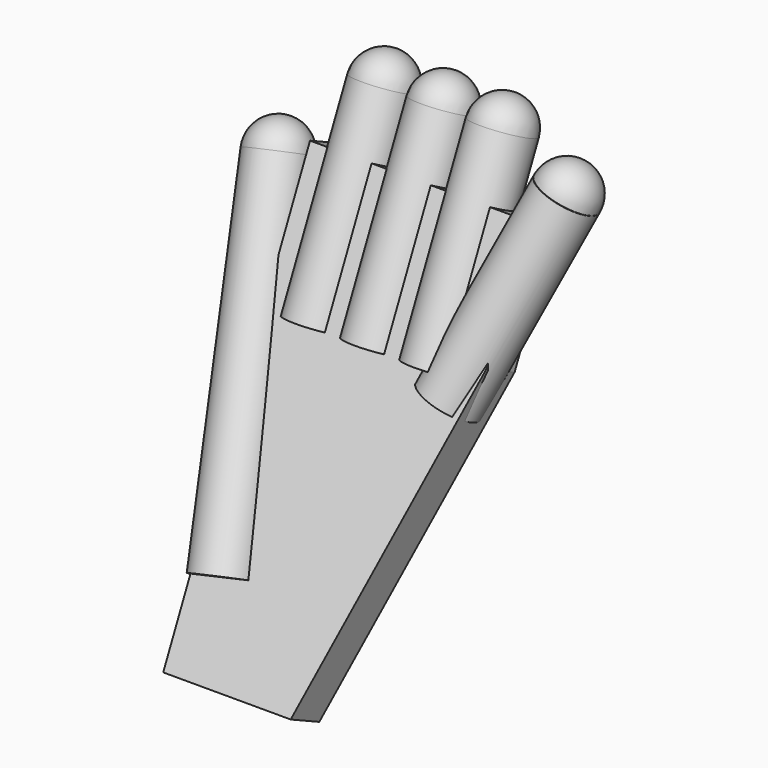
from build123d import *

# Parameters (mm, degrees)
CYLINDER076_R                     = 1.5
CYLINDER076_DEPTH                 = 10
CYLINDER076_ROLL_ANGLE            = -86.804178
CYLINDER076_PITCH_ANGLE           = 18.403125
CYLINDER076_PLACEMENT_ANGLE       = 19.43972
CYLINDER074_R                     = 1.5
CYLINDER074_DEPTH                 = 10
CYLINDER075_R                     = 1.5
CYLINDER075_DEPTH                 = 10
CYLINDER078_R                     = 1.5
CYLINDER078_DEPTH                 = 10
CYLINDER077_R                     = 1.5
CYLINDER077_DEPTH                 = 17
CYLINDER077_ROLL_ANGLE            = 87.960425
CYLINDER077_PITCH_ANGLE           = -11.302952
CYLINDER077_PLACEMENT_ANGLE       = -10.91002
BOX026_W                          = 10
BOX026_H                          = 19
BOX026_DEPTH                      = 10
BOX026_PLACEMENT_ANGLE            = 16
BOX025_W                          = 11
BOX025_H                          = 22
BOX025_DEPTH                      = 2
PART_MIRRORING003_PLACEMENT_ANGLE = 65


with BuildPart() as cylindre072:
    # Cylinder076 → Cylinder076 (new body)
    with BuildSketch(Plane.XY):
        Circle(CYLINDER076_R)
    extrude(amount=CYLINDER076_DEPTH)


with BuildPart() as cylindre072_1:
    # Cylinder076 roll: moved
    add(cylindre072.part.rotate(Axis((0, 0, 0), (1, 0, 0)), CYLINDER076_ROLL_ANGLE))


with BuildPart() as cylindre072_2:
    # Cylinder076 pitch: moved
    add(cylindre072_1.part.rotate(Axis((0, 0, 0), (0, 1, 0)), CYLINDER076_PITCH_ANGLE))


with BuildPart() as cylindre072_3:
    # Cylinder076 placement: moved
    add(cylindre072_2.part.moved(Location((-5, 26, -135))).rotate(Axis((-5, 26, -135), (0, 0, 1)), CYLINDER076_PLACEMENT_ANGLE))


with BuildPart() as obj1:
    # Sphere004 → Sphere004 (revolve)
    with BuildSketch(Plane(origin=(-8.15, 35.5, -134.5), x_dir=(1, 0, 0), z_dir=(0, -1, 0))):
        with BuildLine():
            ThreePointArc((0, -1.5), (1.5, 0), (0, 1.5))
            Line((0, 1.5), (0, -1.5))
        make_face()
    revolve(axis=Axis((-8.15, 35.5, -134.5), (0, 0, 1)))


with BuildPart() as cylindre070:
    # Cylinder074 → Cylinder074 (new body)
    with BuildSketch(Plane(origin=(-4, 37, -135), x_dir=(1, 0, 0), z_dir=(0, -1, 0))):
        Circle(CYLINDER074_R)
    extrude(amount=CYLINDER074_DEPTH)


with BuildPart() as obj2:
    # Sphere003 → Sphere003 (revolve)
    with BuildSketch(Plane(origin=(-4, 37, -135), x_dir=(1, 0, 0), z_dir=(0, -1, 0))):
        with BuildLine():
            ThreePointArc((0, -1.5), (1.5, 0), (0, 1.5))
            Line((0, 1.5), (0, -1.5))
        make_face()
    revolve(axis=Axis((-4, 37, -135), (0, 0, 1)))


with BuildPart() as cylindre071:
    # Cylinder075 → Cylinder075 (new body)
    with BuildSketch(Plane(origin=(-1, 37, -135), x_dir=(1, 0, 0), z_dir=(0, -1, 0))):
        Circle(CYLINDER075_R)
    extrude(amount=CYLINDER075_DEPTH)


with BuildPart() as obj3:
    # Sphere002 → Sphere002 (revolve)
    with BuildSketch(Plane(origin=(-1, 37, -135), x_dir=(1, 0, 0), z_dir=(0, -1, 0))):
        with BuildLine():
            ThreePointArc((0, -1.5), (1.5, 0), (0, 1.5))
            Line((0, 1.5), (0, -1.5))
        make_face()
    revolve(axis=Axis((-1, 37, -135), (0, 0, 1)))


with BuildPart() as cylindre074:
    # Cylinder078 → Cylinder078 (new body)
    with BuildSketch(Plane(origin=(2, 37, -135), x_dir=(1, 0, 0), z_dir=(0, -1, 0))):
        Circle(CYLINDER078_R)
    extrude(amount=CYLINDER078_DEPTH)


with BuildPart() as obj4:
    # Sphere001 → Sphere001 (revolve)
    with BuildSketch(Plane(origin=(2, 37, -135), x_dir=(1, 0, 0), z_dir=(0, -1, 0))):
        with BuildLine():
            ThreePointArc((0, -1.5), (1.5, 0), (0, 1.5))
            Line((0, 1.5), (0, -1.5))
        make_face()
    revolve(axis=Axis((2, 37, -135), (0, 0, 1)))


with BuildPart() as cylindre073:
    # Cylinder077 → Cylinder077 (new body)
    with BuildSketch(Plane.XY):
        Circle(CYLINDER077_R)
    extrude(amount=CYLINDER077_DEPTH)


with BuildPart() as cylindre073_1:
    # Cylinder077 roll: moved
    add(cylindre073.part.rotate(Axis((0, 0, 0), (1, 0, 0)), CYLINDER077_ROLL_ANGLE))


with BuildPart() as cylindre073_2:
    # Cylinder077 pitch: moved
    add(cylindre073_1.part.rotate(Axis((0, 0, 0), (0, 1, 0)), CYLINDER077_PITCH_ANGLE))


with BuildPart() as cylindre073_3:
    # Cylinder077 placement: moved
    add(cylindre073_2.part.moved(Location((6, 33, -135))).rotate(Axis((6, 33, -135), (0, 0, 1)), CYLINDER077_PLACEMENT_ANGLE))


with BuildPart() as obj5:
    # Sphere005 → Sphere005 (revolve)
    with BuildSketch(Plane(origin=(6, 33, -135), x_dir=(1, 0, 0), z_dir=(0, -1, 0))):
        with BuildLine():
            ThreePointArc((0, -1.5), (1.5, 0), (0, 1.5))
            Line((0, 1.5), (0, -1.5))
        make_face()
    revolve(axis=Axis((6, 33, -135), (0, 0, 1)))


with BuildPart() as cube026:
    # Box026 → Box026 (new body)
    with BuildSketch(Plane.XY):
        with Locations((5, 9.5)):
            Rectangle(BOX026_W, BOX026_H)
    extrude(amount=BOX026_DEPTH)


with BuildPart() as cube026_1:
    # Box026 placement: moved
    add(cube026.part.moved(Location((-12, 9, -144))).rotate(Axis((-12, 9, -144), (0, 0, 1)), BOX026_PLACEMENT_ANGLE))


with BuildPart() as fusion040:
    # Box025 → Box025 (new body)
    with BuildSketch(Plane(origin=(-7, 12, -136), x_dir=(1, 0, 0), z_dir=(0, 0, 1))):
        with Locations((5.5, 11)):
            Rectangle(BOX025_W, BOX025_H)
    extrude(amount=BOX025_DEPTH)

    # Cut042: cut Cube026
    add(cube026_1.part, mode=Mode.SUBTRACT)

    # Fusion040: union Cylindre072, obj1, Cylindre070, obj2, Cylindre071, obj3, Cylindre074, obj4, Cylindre073, obj5
    add(cylindre072_3.part)
    add(obj1.part)
    add(cylindre070.part)
    add(obj2.part)
    add(cylindre071.part)
    add(obj3.part)
    add(cylindre074.part)
    add(obj4.part)
    add(cylindre073_3.part)
    add(obj5.part)


with BuildPart() as part_mirroring003:
    # Part__Mirroring003: instance of Fusion040
    add(fusion040.part.mirror(Plane(origin=(0, 0, 0), x_dir=(0, -1, 0), z_dir=(1, 0, 0))))


with BuildPart() as part_mirroring003_1:
    # Part__Mirroring003 placement: moved
    add(part_mirroring003.part.moved(Location((17, -107, -42))).rotate(Axis((17, -107, -42), (1, 0, 0)), PART_MIRRORING003_PLACEMENT_ANGLE))


solid = part_mirroring003_1.part
